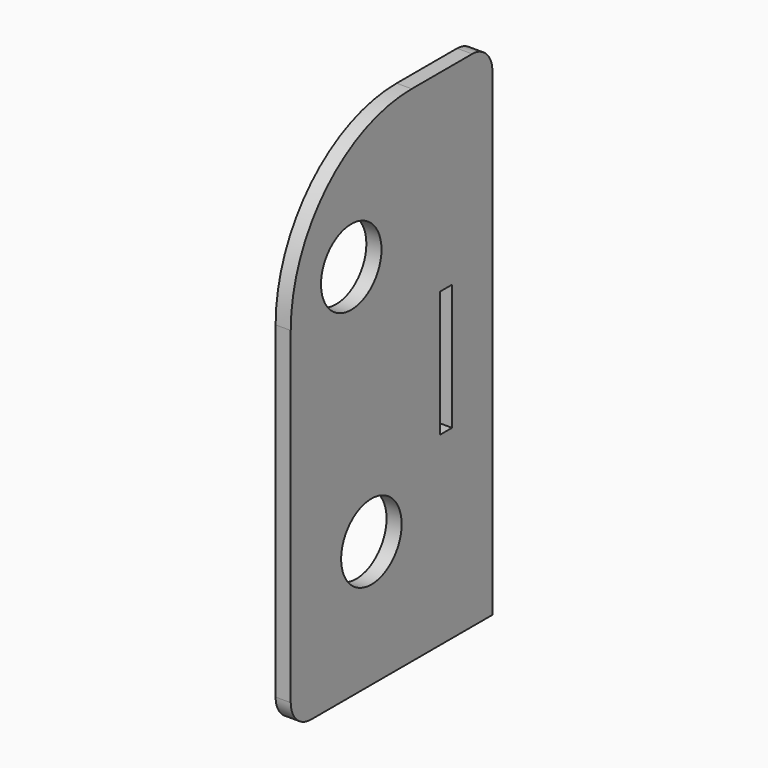
from build123d import *

# Parameters (mm, degrees)
F0_W      = 50
F0_H      = 100
F1_DEPTH  = 3
F2_W      = 3
F2_H      = 25
F3_DEPTH  = 3
F4_R      = 30
F5_R      = 5
F6_R      = 5
F7_R      = 7.5
F8_DEPTH  = 3
F9_R      = 7.5
F10_DEPTH = 25


with BuildPart() as f1:
    # F0 (on Right) → F1 (new body)
    with BuildSketch(Plane.YZ):
        with Locations((-103.739034, 70.985424)):
            Rectangle(F0_W, F0_H)
    extrude(amount=F1_DEPTH)

    # F2 (on face) → F3 (cut)
    with BuildSketch(Plane.YZ.offset(3)):
        with Locations((-90.239034, 70.224934)):
            Rectangle(F2_W, F2_H)
    extrude(amount=-F3_DEPTH, mode=Mode.SUBTRACT)

    # F4
    f4_edges = [f1.edges().sort_by_distance(p)[0] for p in [
        (1.5, -128.739034, 120.985424),
    ]]
    fillet(f4_edges, radius=F4_R)

    # F5
    f5_edges = [f1.edges().sort_by_distance(p)[0] for p in [
        (1.5, -78.739034, 120.985424),
    ]]
    fillet(f5_edges, radius=F5_R)

    # F6
    f6_edges = [f1.edges().sort_by_distance(p)[0] for p in [
        (1.5, -128.739034, 20.985424),
    ]]
    fillet(f6_edges, radius=F6_R)

    # F7 (on face) → F8 (cut)
    with BuildSketch(Plane.YZ.offset(3)):
        with Locations((-113.739034, 95.985424)):
            Circle(F7_R)
    extrude(amount=-F8_DEPTH, mode=Mode.SUBTRACT)

    # F9 (on face) → F10 (cut)
    with BuildSketch(Plane.YZ.offset(3)):
        with Locations((-108.739034, 45.985424)):
            Circle(F9_R)
    extrude(amount=-F10_DEPTH, mode=Mode.SUBTRACT)


solid = f1.part
